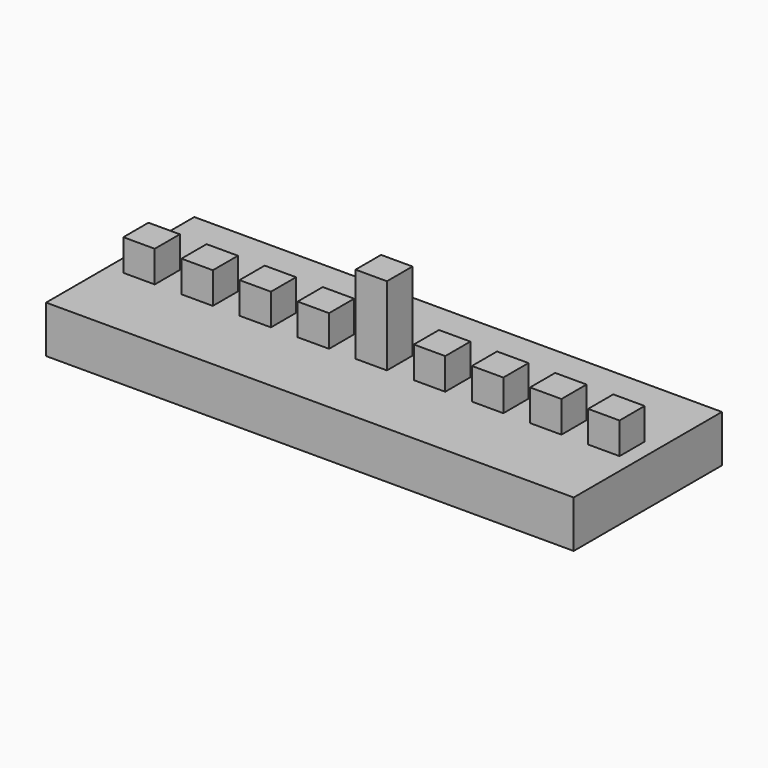
from build123d import *

# Parameters (mm, degrees)
F0_W     = 168
F0_H     = 58.99848
F2_DEPTH = 15
F3_W     = 10
F3_H     = 10
F4_DEPTH = 25
F1_W     = 10
F1_H     = 10.166666
F5_DEPTH = 40


with BuildPart() as f2:
    # F0 (on Top) → F2 (new body)
    with BuildSketch(Plane.XY):
        Rectangle(F0_W, F0_H)
    extrude(amount=F2_DEPTH)

    # F3 (on Top) → F4 (join)
    with BuildSketch(Plane.XY):
        with Locations((-74, 0)):
            Rectangle(F3_W, F3_H)
        with Locations((-55.499591, 0)):
            Rectangle(F3_W, F3_H)
        with Locations((-36.999591, 0)):
            Rectangle(F3_W, F3_H)
        with Locations((-18.499591, 0)):
            Rectangle(F3_W, F3_H)
        with Locations((18.499591, 0)):
            Rectangle(F3_W, F3_H)
        with Locations((36.999591, 0)):
            Rectangle(F3_W, F3_H)
        with Locations((55.499591, 0)):
            Rectangle(F3_W, F3_H)
        with Locations((74, 0)):
            Rectangle(F3_W, F3_H)
    extrude(amount=F4_DEPTH)

    # F1 (on Top) → F5 (join)
    with BuildSketch(Plane.XY):
        Rectangle(F1_W, F1_H)
    extrude(amount=F5_DEPTH)


solid = f2.part
